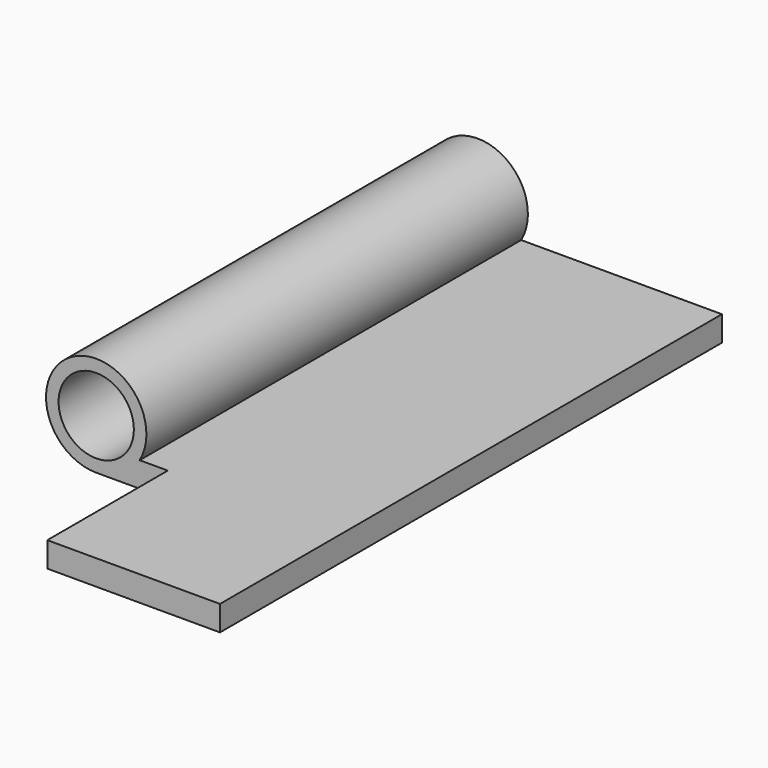
from build123d import *

# Parameters (mm, degrees)
F0_R     = 1.5
F1_DEPTH = 12.5
F3_DEPTH = 6


with BuildPart() as f1:
    # F0 (on Front) → F1 (new body, symmetric)
    with BuildSketch(Plane.XZ):
        with BuildLine():
            ThreePointArc((1.7320508076, -1), (-1, 1.7320508076), (0, -2))
            Line((0, -2), (9.7320508076, -2))
            Line((9.7320508076, -2), (9.7320508076, -1))
            Line((9.7320508076, -1), (1.7320508076, -1))
        make_face()
        Circle(F0_R, mode=Mode.SUBTRACT)
    extrude(amount=F1_DEPTH, both=True)

    # F2 (on face) → F3 (cut)
    with BuildSketch(Plane.XZ.offset(12.5)):
        Polygon((2.8516689781, 2.8144938406), (1.7320508076, 2.8144938406), (-4.3542445637, 2.8144938406), (-4.3542445637, -3.379592672), (1.7320508076, -3.379592672), (2.8516689781, -2.5923951762), (2.8516689781, -1), align=None)
    extrude(amount=-F3_DEPTH, mode=Mode.SUBTRACT)


solid = f1.part
